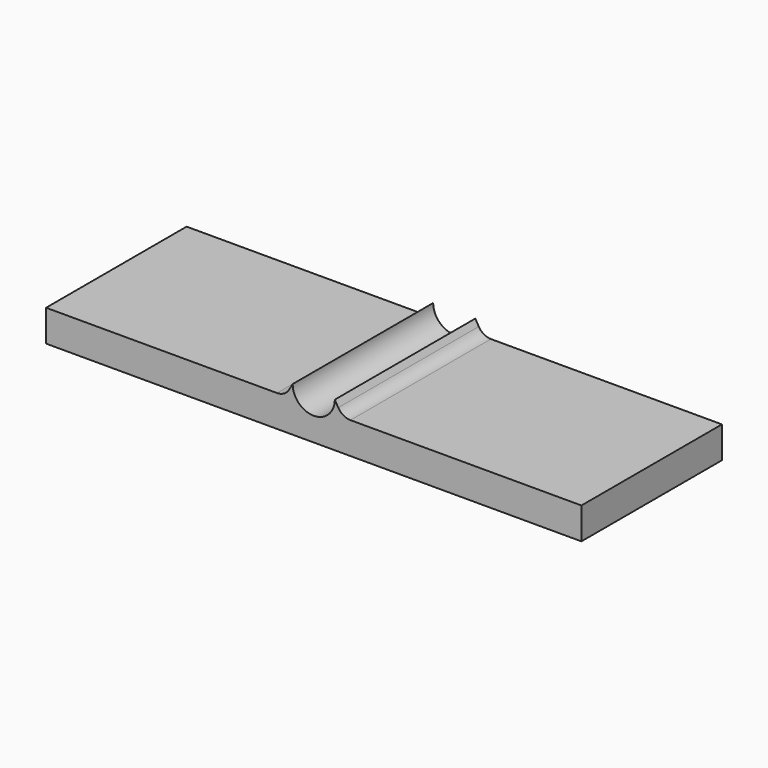
from build123d import *

# Parameters (mm, degrees)
F1_DEPTH = 12.5


with BuildPart() as f1:
    # F0 (on Front) → F1 (new body, symmetric)
    with BuildSketch(Plane.XZ):
        with BuildLine():
            Line((0, 4.5), (0, 0))
            Line((0, 0), (76.2, 0))
            Line((76.2, 0), (76.2, 4.5))
            Line((76.2, 4.5), (43.322799, 4.5))
            ThreePointArc((43.322799, 4.5), (42.322799, 4.767949), (41.590748, 5.5))
            Line((41.590748, 5.5), (41.1, 6.35))
            ThreePointArc((41.1, 6.35), (38.1, 3.35), (35.1, 6.35))
            Line((35.1, 6.35), (34.609252, 5.5))
            ThreePointArc((34.609252, 5.5), (33.877201, 4.767949), (32.877201, 4.5))
            Line((32.877201, 4.5), (0, 4.5))
        make_face()
    extrude(amount=F1_DEPTH, both=True)


solid = f1.part
